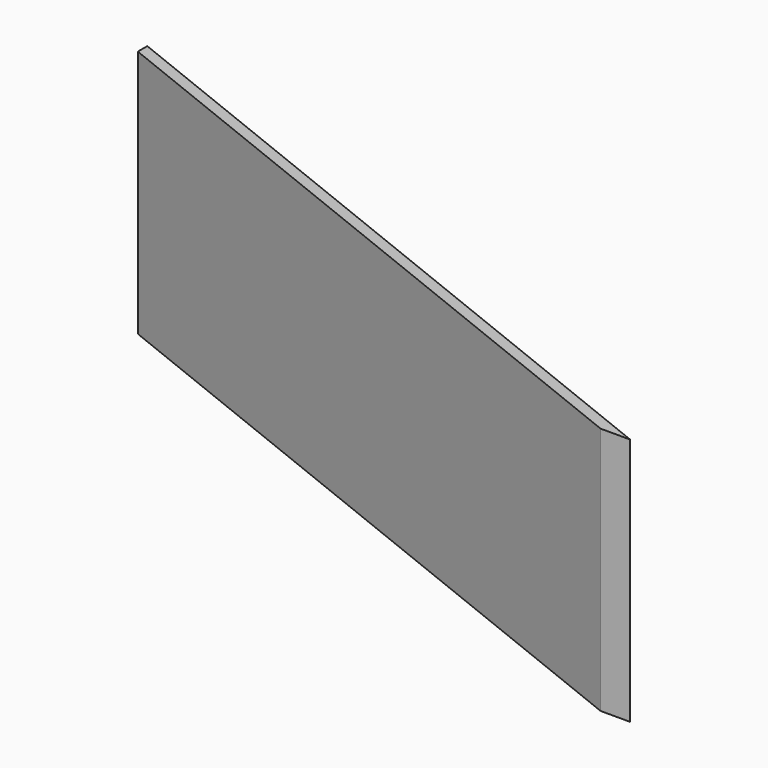
from build123d import *

# Parameters (mm, degrees)
F0_W     = 190.5
F0_H     = 76.2
F1_DEPTH = 66.675
F3_DEPTH = 76.2
F5_DEPTH = 76.2


with BuildPart() as f1:
    # F0 (on Top) → F1 (new body)
    with BuildSketch(Plane.XY):
        with Locations((95.25, 38.1)):
            Rectangle(F0_W, F0_H)
    extrude(amount=F1_DEPTH)

    # F2 (on face) → F3 (cut)
    with BuildSketch(Plane.XY.offset(66.675)):
        Polygon((0, 76.2), (190.5, 0), (190.5, 76.2), align=None)
    extrude(amount=-F3_DEPTH, mode=Mode.SUBTRACT)

    # F4 (on face) → F5 (cut)
    with BuildSketch(Plane.XY.offset(66.675)):
        Polygon((182.5625, 0), (0, 73.025), (0, 0), align=None)
    extrude(amount=-F5_DEPTH, mode=Mode.SUBTRACT)


solid = f1.part
